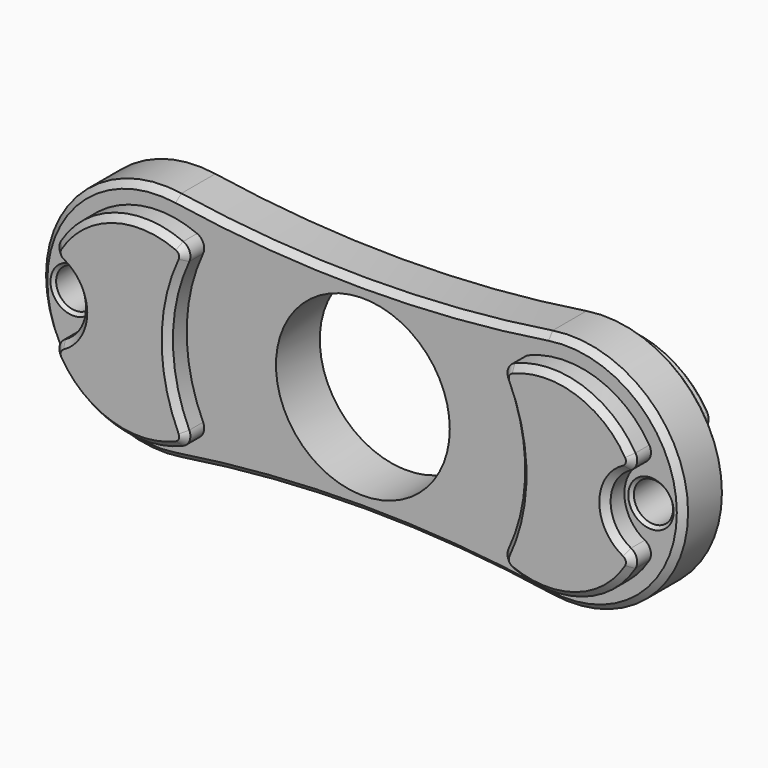
from build123d import *

# Parameters (mm, degrees)
F0_R      = 11.1
F1_DEPTH  = 7
F2_SIZE   = 0.8
F3_R      = 12.5
F4_DEPTH  = 3
F5_R      = 12.5
F6_DEPTH  = 3
F8_R      = 22.5
F9_DEPTH  = 3
F10_R     = 22.5
F11_DEPTH = 3
F12_R     = 5
F13_DEPTH = 3
F14_R     = 5
F15_DEPTH = 3
F16_R     = 5
F17_DEPTH = 3
F18_R     = 5
F19_DEPTH = 3
F20_R     = 1.5
F21_R     = 2.5
F22_DEPTH = 25
F23_R     = 2.5
F24_DEPTH = 25
F25_SIZE  = 0.4
F26_SIZE  = 0.8


with BuildPart() as f1:
    # F0 (on Front) → F1 (new body)
    with BuildSketch(Plane.XZ):
        with BuildLine():
            ThreePointArc((21.7678643686, 14.8235294118), (-1.9380179843, 13), (-25.6439003372, 14.8235294118))
            ThreePointArc((-25.6439003372, 14.8235294118), (-42.9380179843, 0), (-25.6439003372, -14.8235294118))
            ThreePointArc((-25.6439003372, -14.8235294118), (-1.9380179843, -13), (21.7678643686, -14.8235294118))
            ThreePointArc((21.7678643686, -14.8235294118), (39.0619820157, 0), (21.7678643686, 14.8235294118))
        make_face()
        with Locations((-1.8380179843, 0)):
            Circle(F0_R, mode=Mode.SUBTRACT)
    extrude(amount=F1_DEPTH)

    # F2
    f2_edges = [f1.edges().sort_by_distance(p)[0] for p in [
        (-42.938018, -7, 0),
        (-1.938018, -7, -13),
        (-1.938018, 0, -13),
    ]]
    chamfer(f2_edges, length=F2_SIZE)

    # F3 (on face) → F4 (join)
    with BuildSketch(Plane.XZ.offset(7)):
        with Locations((-27.9380179843, 0)):
            Circle(F3_R)
        with Locations((24.0619820157, 0)):
            Circle(F3_R)
    extrude(amount=F4_DEPTH)

    # F5 (on face) → F6 (join)
    with BuildSketch(Plane(origin=(0, 0, 0), x_dir=(-1, 0, 0), z_dir=(0, 1, 0))):
        with Locations((-24.0619820157, 0)):
            Circle(F5_R)
        with Locations((27.9380179843, 0)):
            Circle(F5_R)
    extrude(amount=F6_DEPTH)

    # F8 (on face) → F9 (cut)
    with BuildSketch(Plane.XZ.offset(10)):
        with Locations((-1.8380179843, 0)):
            Circle(F8_R)
    extrude(amount=-F9_DEPTH, mode=Mode.SUBTRACT)

    # F10 (on face) → F11 (cut)
    with BuildSketch(Plane(origin=(0, 3, 0), x_dir=(-1, 0, 0), z_dir=(0, 1, 0))):
        with Locations((1.8380179843, 0)):
            Circle(F10_R)
    extrude(amount=-F11_DEPTH, mode=Mode.SUBTRACT)

    # F12 (on face) → F13 (cut)
    with BuildSketch(Plane(origin=(0, 3, 0), x_dir=(-1, 0, 0), z_dir=(0, 1, 0))):
        with Locations((-36.5619820157, 0)):
            Circle(F12_R)
    extrude(amount=-F13_DEPTH, mode=Mode.SUBTRACT)

    # F14 (on face) → F15 (cut)
    with BuildSketch(Plane(origin=(0, 3, 0), x_dir=(-1, 0, 0), z_dir=(0, 1, 0))):
        with Locations((40.4380179843, 0)):
            Circle(F14_R)
    extrude(amount=-F15_DEPTH, mode=Mode.SUBTRACT)

    # F16 (on face) → F17 (cut)
    with BuildSketch(Plane.XZ.offset(10)):
        with Locations((-40.4380179843, 0)):
            Circle(F16_R)
    extrude(amount=-F17_DEPTH, mode=Mode.SUBTRACT)

    # F18 (on face) → F19 (cut)
    with BuildSketch(Plane.XZ.offset(10)):
        with Locations((36.5617908537, 0)):
            Circle(F18_R)
    extrude(amount=-F19_DEPTH, mode=Mode.SUBTRACT)

    # F20
    f20_edges = [f1.edges().sort_by_distance(p)[0] for p in [
        (-39.438018, -8.5, 4.898979),
        (-39.438018, -8.5, -4.898979),
        (-21.592999, -8.5, -10.769899),
        (-21.592999, -8.5, 10.769899),
        (17.868739, -8.5, 10.857888),
        (17.868739, -8.5, -10.857888),
        (35.561967, -8.5, -4.899015),
        (35.561967, -8.5, 4.899015),
        (-21.592999, 1.5, -10.769899),
        (-21.592999, 1.5, 10.769899),
        (-39.438018, 1.5, 4.898979),
        (-39.438018, 1.5, -4.898979),
        (17.868739, 1.5, -10.857888),
        (17.868739, 1.5, 10.857888),
        (35.561982, 1.5, -4.898979),
        (35.561982, 1.5, 4.898979),
    ]]
    fillet(f20_edges, radius=F20_R)

    # F21 (on face) → F22 (cut)
    with BuildSketch(Plane.XZ.offset(7)):
        with Locations((-38.8380179843, 0)):
            Circle(F21_R)
    extrude(amount=-F22_DEPTH, mode=Mode.SUBTRACT)

    # F23 (on face) → F24 (cut)
    with BuildSketch(Plane.XZ.offset(7)):
        with Locations((34.9617908537, 0)):
            Circle(F23_R)
    extrude(amount=-F24_DEPTH, mode=Mode.SUBTRACT)

    # F25
    f25_edges = [f1.edges().sort_by_distance(p)[0] for p in [
        (-41.338018, -7, 0),
        (32.461791, -7, 0),
        (32.461791, 0, 0),
        (-41.338018, 0, 0),
    ]]
    chamfer(f25_edges, length=F25_SIZE)

    # F26
    f26_edges = [f1.edges().sort_by_distance(p)[0] for p in [
        (27.97166, -10, 11.872844),
        (18.498441, -10, 10.725925),
        (34.910055, -10, 5.322137),
        (20.661982, -10, 0),
        (31.561791, -10, 0),
        (18.498441, -10, -10.725925),
        (34.910055, -10, -5.322137),
        (27.97166, -10, -11.872844),
        (-24.338018, -10, 0),
        (-22.203581, -10, 10.646558),
        (-22.203581, -10, -10.646558),
        (-31.749718, -10, 11.904661),
        (-31.749718, -10, -11.904661),
        (-38.786142, -10, 5.322071),
        (-38.786142, -10, -5.322071),
        (-35.438018, -10, 0),
        (-24.338018, 3, 0),
        (-22.203581, 3, -10.646558),
        (-22.203581, 3, 10.646558),
        (-31.749718, 3, -11.904661),
        (-31.749718, 3, 11.904661),
        (-38.786142, 3, -5.322071),
        (-38.786142, 3, 5.322071),
        (-35.438018, 3, 0),
        (20.661982, 3, 0),
        (18.498441, 3, 10.725925),
        (18.498441, 3, -10.725925),
        (27.971709, 3, 11.872828),
        (27.971709, 3, -11.872828),
        (34.910106, 3, 5.322071),
        (34.910106, 3, -5.322071),
        (31.561982, 3, 0),
    ]]
    chamfer(f26_edges, length=F26_SIZE)


solid = f1.part
